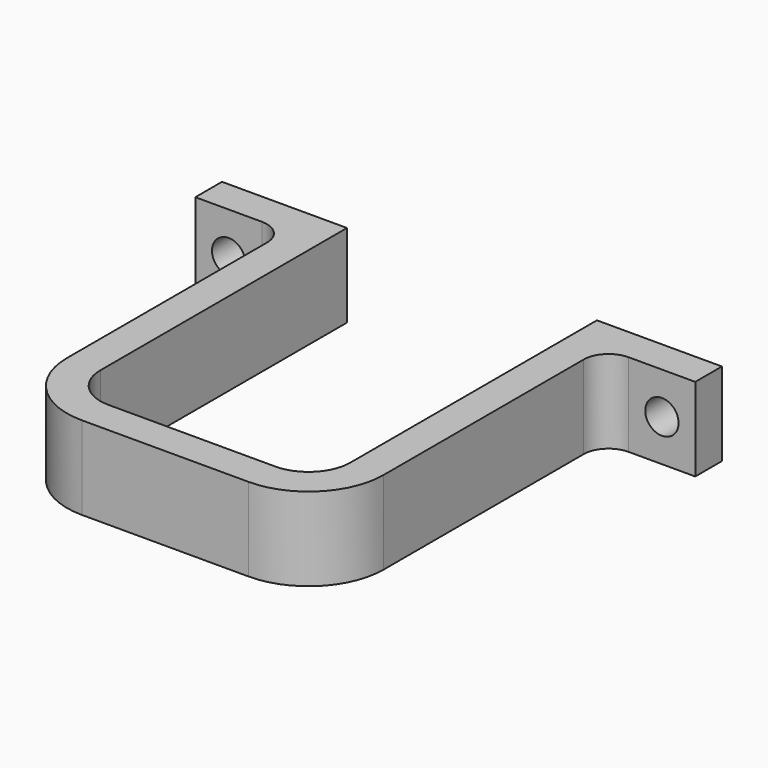
from build123d import *

# Parameters (mm, degrees)
F1_DEPTH = 10
F2_R     = 2
F3_DEPTH = 4


with BuildPart() as f1:
    # F0 (on Top) → F1 (new body)
    with BuildSketch(Plane.XY):
        with BuildLine():
            Line((0, -37), (0, 0))
            Line((0, 0), (-15, 0))
            Line((-15, 0), (-15, -4))
            Line((-15, -4), (-7, -4))
            ThreePointArc((-7, -4), (-4.87868, -4.87868), (-4, -7))
            Line((-4, -7), (-4, -37))
            ThreePointArc((-4, -37), (-1.363961, -43.363961), (5, -46))
            Line((5, -46), (25, -46))
            ThreePointArc((25, -46), (31.363961, -43.363961), (34, -37))
            Line((34, -37), (34, -7))
            ThreePointArc((34, -7), (34.87868, -4.87868), (37, -4))
            Line((37, -4), (45, -4))
            Line((45, -4), (45, 0))
            Line((45, 0), (30, 0))
            Line((30, 0), (30, -37))
            ThreePointArc((30, -37), (28.535534, -40.535534), (25, -42))
            Line((25, -42), (5, -42))
            ThreePointArc((5, -42), (1.464466, -40.535534), (0, -37))
        make_face()
    extrude(amount=F1_DEPTH)

    # F2 (on face) → F3 (cut)
    with BuildSketch(Plane.XZ.offset(4)):
        with Locations((-11, 5)):
            Circle(F2_R)
        with Locations((41, 5)):
            Circle(F2_R)
    extrude(amount=-F3_DEPTH, mode=Mode.SUBTRACT)


solid = f1.part
